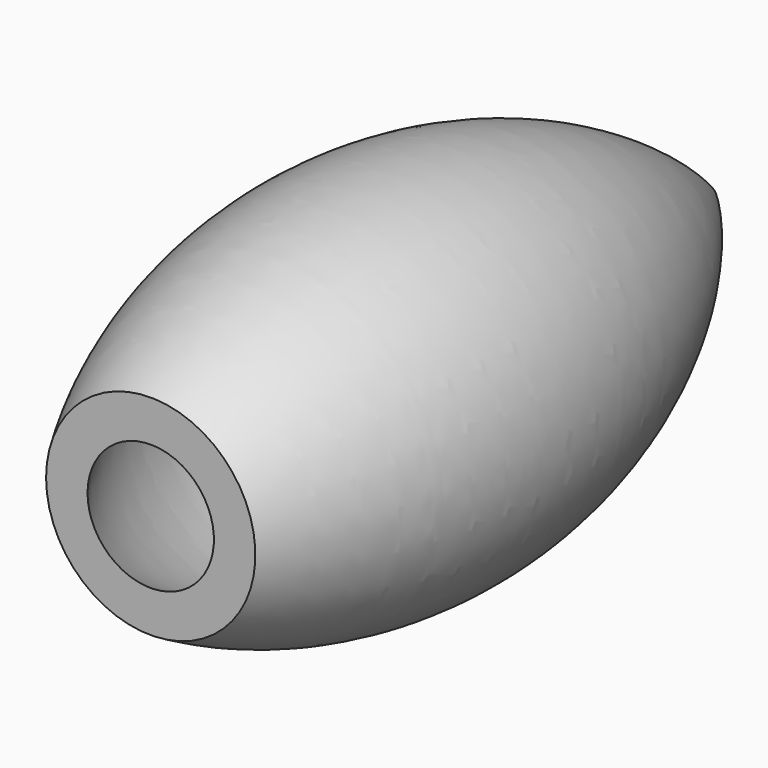
from build123d import *


with BuildPart() as f1:
    # F0 (on Top) → F1 (revolve)
    with BuildSketch(Plane.XY):
        with BuildLine():
            ThreePointArc((-8.344371, -33.116724), (-19.23419, 11.747481), (0, 53.716887))
            Line((0, 53.716887), (0, 59.97517))
            ThreePointArc((0, 59.97517), (-23.124234, 15.836351), (-13.820364, -33.116724))
            Line((-13.820364, -33.116724), (-8.344371, -33.116724))
        make_face()
    revolve(axis=Axis((0, 2.998758, 0), (0, -1, 0)))


solid = f1.part
